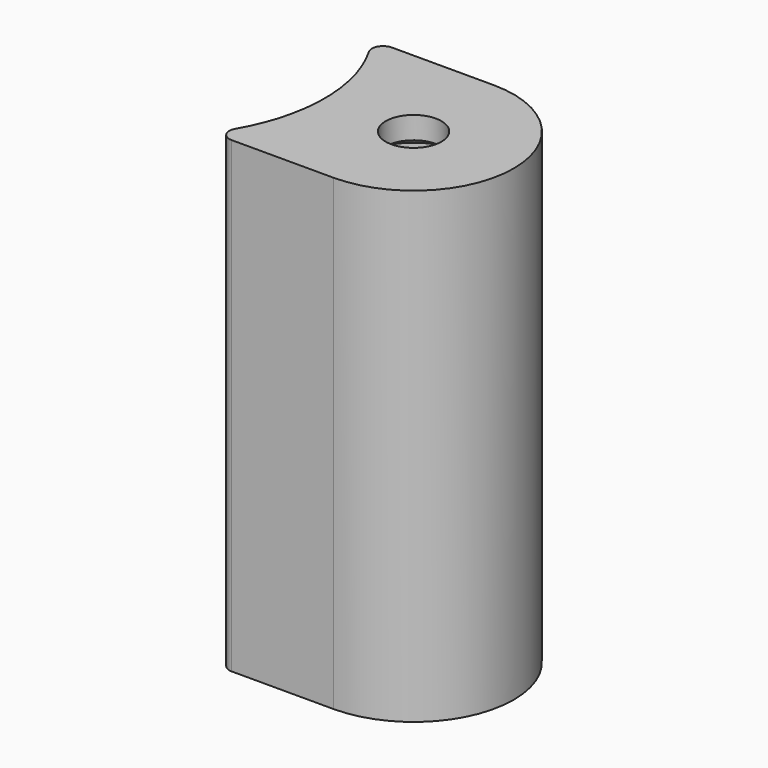
from build123d import *

# Parameters (mm, degrees)
F1_DEPTH = 40
F3_D     = 10
F3_DEPTH = 38.5
F3_TIP   = 3.0043030951
F4_DEPTH = 2
F5_R     = 1


with BuildPart() as f1:
    # F0 (on Top) → F1 (new body)
    with BuildSketch(Plane.XY):
        with BuildLine():
            ThreePointArc((0, -5), (-5, 0), (0, 5))
            Line((0, 5), (0, 9))
            ThreePointArc((0, 9), (-5.0605227038, 7.442520404), (-8.3695652174, 3.3091355475))
            ThreePointArc((-8.3695652174, 3.3091355475), (-8, 0), (-8.3695652174, -3.3091355475))
            ThreePointArc((-8.3695652174, -3.3091355475), (-5.0605227038, -7.442520404), (0, -9))
            Line((0, -9), (0, -5))
        make_face()
        with BuildLine():
            ThreePointArc((-8.3695652174, 3.3091355475), (-5.0605227038, 7.442520404), (0, 9))
            Line((0, 9), (-11, 9))
            ThreePointArc((-11, 9), (-9.3841453176, 6.2935285229), (-8.3695652174, 3.3091355475))
        make_face()
        with BuildLine():
            Line((-11, -9), (0, -9))
            ThreePointArc((0, -9), (-5.0605227038, -7.442520404), (-8.3695652174, -3.3091355475))
            ThreePointArc((-8.3695652174, -3.3091355475), (-9.3841453176, -6.2935285229), (-11, -9))
        make_face()
        with BuildLine():
            ThreePointArc((0, 5), (3.5355339059, 3.5355339059), (5, 0))
            ThreePointArc((5, 0), (3.5355339059, -3.5355339059), (0, -5))
            Line((0, -5), (0, -9))
            ThreePointArc((0, -9), (6.3639610307, -6.3639610307), (9, 0))
            ThreePointArc((9, 0), (6.3639610307, 6.3639610307), (0, 9))
            Line((0, 9), (0, 5))
        make_face()
        with BuildLine():
            Line((0, -5), (0, 5))
            ThreePointArc((0, 5), (-5, 0), (0, -5))
        make_face()
        with BuildLine():
            ThreePointArc((0, -5), (3.5355339059, -3.5355339059), (5, 0))
            ThreePointArc((5, 0), (3.5355339059, 3.5355339059), (0, 5))
            Line((0, 5), (0, -5))
        make_face()
    extrude(amount=F1_DEPTH)

    # F3
    with Locations(Plane(origin=(0, 0, 0), x_dir=(1, 0, 0), z_dir=(0, 0, -1))):
        with Locations((0, 0)):
            Hole(F3_D / 2, depth=F3_DEPTH)
            with Locations((0, 0, -(F3_DEPTH + F3_TIP / 2))):  # 118° drill point
                Cone(0, F3_D / 2, F3_TIP, mode=Mode.SUBTRACT)

    # F4 (add): a face of the model
    f4_faces = [f1.faces().sort_by_distance(p)[0] for p in [
        (-5.5, 8.7309275191, 40),
    ]]
    extrude(f4_faces, amount=F4_DEPTH)

    # F5
    f5_edges = [f1.edges().sort_by_distance(p)[0] for p in [
        (-11, -9, 21),
        (-11, 9, 21),
    ]]
    fillet(f5_edges, radius=F5_R)


solid = f1.part
